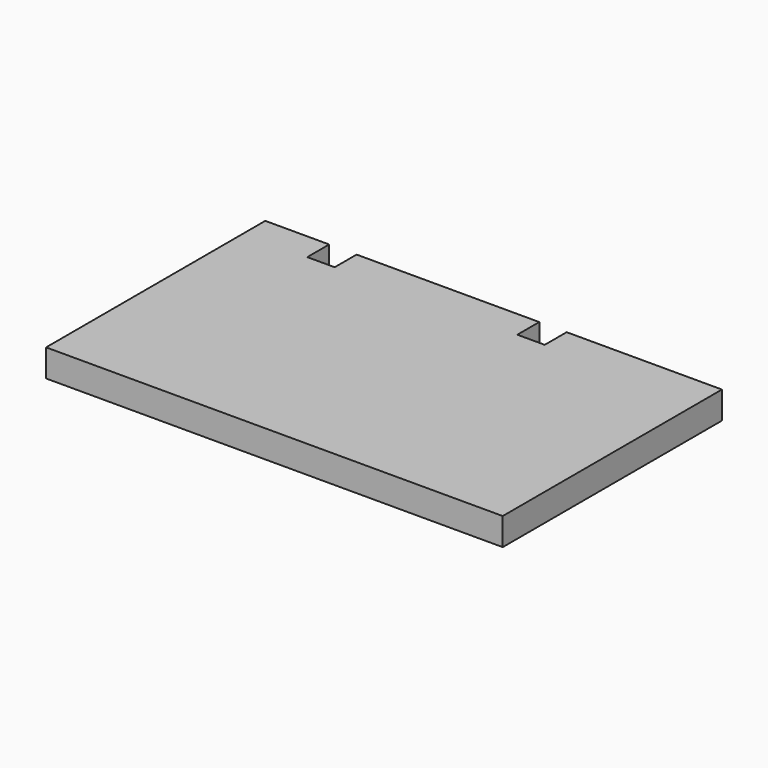
from build123d import *

# Parameters (mm, degrees)
F0_W     = 500
F0_H     = 30
F1_DEPTH = 300
F2_W     = 30
F2_H     = 30.000001
F3_DEPTH = 30
F4_W     = 30
F4_H     = 30
F5_DEPTH = 30


with BuildPart() as f1:
    # F0 (on Front) → F1 (new body)
    with BuildSketch(Plane.XZ):
        Rectangle(F0_W, F0_H)
    extrude(amount=F1_DEPTH)

    # F2 (on Front) → F3 (cut)
    with BuildSketch(Plane.XZ):
        with Locations((65, 0)):
            Rectangle(F2_W, F2_H)
    extrude(amount=F3_DEPTH, mode=Mode.SUBTRACT)

    # F4 (on Front) → F5 (cut)
    with BuildSketch(Plane.XZ):
        with Locations((-165, 0)):
            Rectangle(F4_W, F4_H)
    extrude(amount=F5_DEPTH, mode=Mode.SUBTRACT)


solid = f1.part
